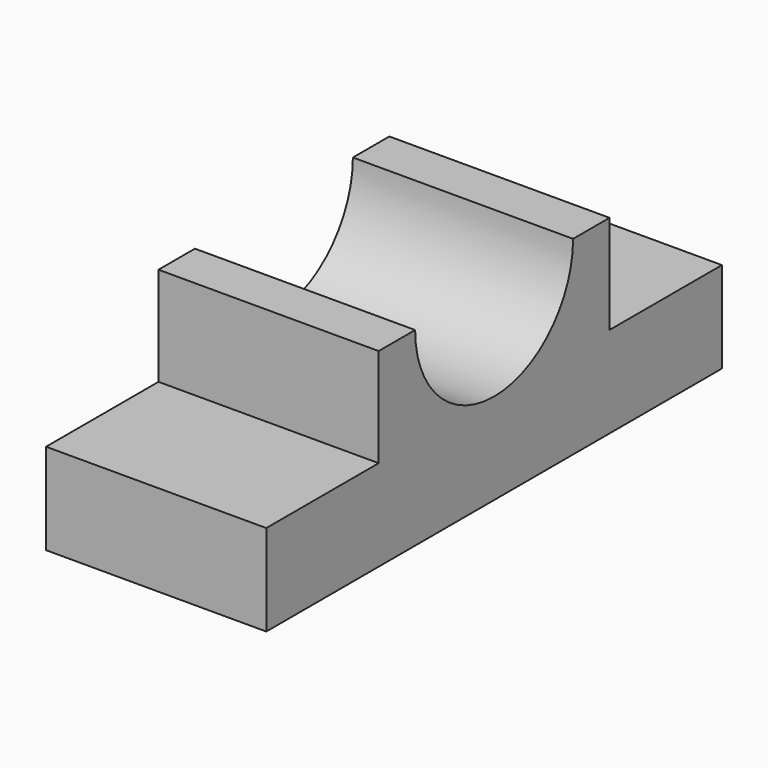
from build123d import *

# Parameters (mm, degrees)
F1_DEPTH = 14.732
F3_DEPTH = 14.732


with BuildPart() as f1:
    # F0 (on Right) → F1 (new body)
    with BuildSketch(Plane.YZ):
        Polygon((-60.821556, -14.720555), (-60.821556, -20.816555), (-22.721556, -20.816555), (-22.721556, -14.720555), (-32.119556, -14.720555), (-32.119556, -8.116555), (-51.423556, -8.116555), (-51.423556, -14.720555), align=None)
    extrude(amount=F1_DEPTH)

    # F2 (on face) → F3 (cut)
    with BuildSketch(Plane.YZ.offset(14.732)):
        with BuildLine():
            ThreePointArc((-48.375556, -8.116555), (-41.771556, -14.720555), (-35.167556, -8.116555))
            Line((-35.167556, -8.116555), (-48.375556, -8.116555))
        make_face()
    extrude(amount=-F3_DEPTH, mode=Mode.SUBTRACT)


solid = f1.part
